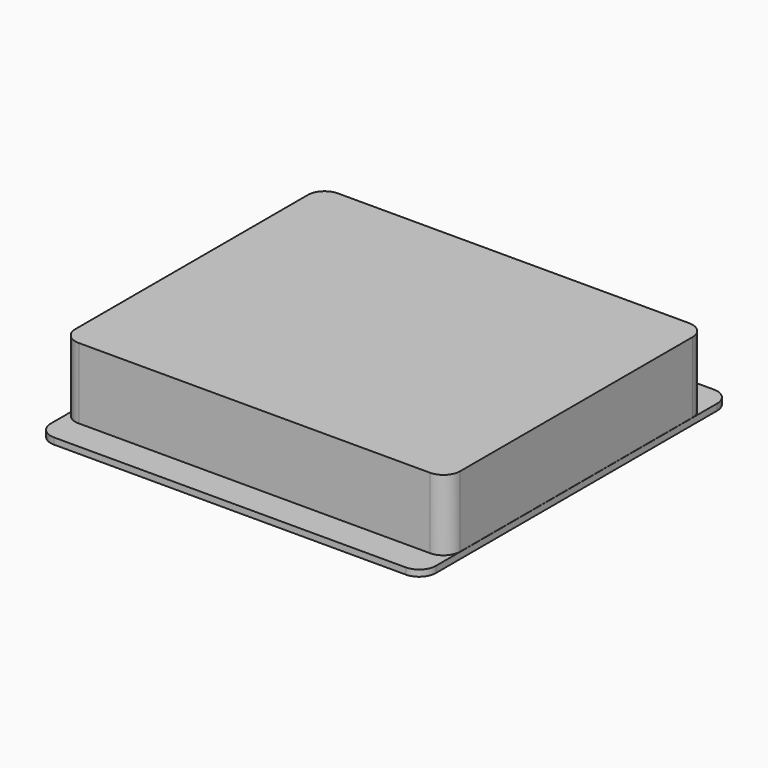
from build123d import *

# Parameters (mm, degrees)
F1_DEPTH = 4.826
F2_R     = 6.35
F3_DEPTH = 19.05
F5_W     = 50.8
F5_H     = 85.09
F6_DEPTH = 19.05
F8_DEPTH = 53.70068


with BuildPart() as f1:
    # F0 (on Top) → F1 (new body)
    with BuildSketch(Plane.XY):
        with BuildLine():
            ThreePointArc((146.05, 133.35), (142.330256, 142.330256), (133.35, 146.05))
            Line((133.35, 146.05), (-133.35, 146.05))
            ThreePointArc((-133.35, 146.05), (-142.330256, 142.330256), (-146.05, 133.35))
            Line((-146.05, 133.35), (-146.05, -133.35))
            ThreePointArc((-146.05, -133.35), (-142.330256, -142.330256), (-133.35, -146.05))
            Line((-133.35, -146.05), (133.35, -146.05))
            ThreePointArc((133.35, -146.05), (142.330256, -142.330256), (146.05, -133.35))
            Line((146.05, -133.35), (146.05, 133.35))
        make_face()
    extrude(amount=F1_DEPTH)

    # F2 (on Top) → F3 (join)
    with BuildSketch(Plane.XY):
        with Locations((-17.399, -57.15)):
            Circle(F2_R)
        with Locations((17.399, -57.15)):
            Circle(F2_R)
        with Locations((17.399, 0)):
            Circle(F2_R)
        with Locations((-17.399, 0)):
            Circle(F2_R)
    extrude(amount=-F3_DEPTH)

    # F5 (on offset) → F6 (join)
    with BuildSketch(Plane.XY.offset(-19.05)):
        with Locations((0, -28.575)):
            Rectangle(F5_W, F5_H)
    extrude(amount=-F6_DEPTH)

    # F7 (on face) → F8 (join)
    with BuildSketch(Plane.XY.offset(4.826)):
        with BuildLine():
            Line((-133.20014, -122.84964), (133.20014, -122.84964))
            ThreePointArc((133.20014, -122.84964), (142.180396, -119.129896), (145.90014, -110.14964))
            Line((145.90014, -110.14964), (145.90014, 110.14964))
            ThreePointArc((145.90014, 110.14964), (142.180396, 119.129896), (133.20014, 122.84964))
            Line((133.20014, 122.84964), (-133.20014, 122.84964))
            ThreePointArc((-133.20014, 122.84964), (-142.180396, 119.129896), (-145.90014, 110.14964))
            Line((-145.90014, 110.14964), (-145.90014, -110.14964))
            ThreePointArc((-145.90014, -110.14964), (-142.180396, -119.129896), (-133.20014, -122.84964))
        make_face()
    extrude(amount=F8_DEPTH)


solid = f1.part
